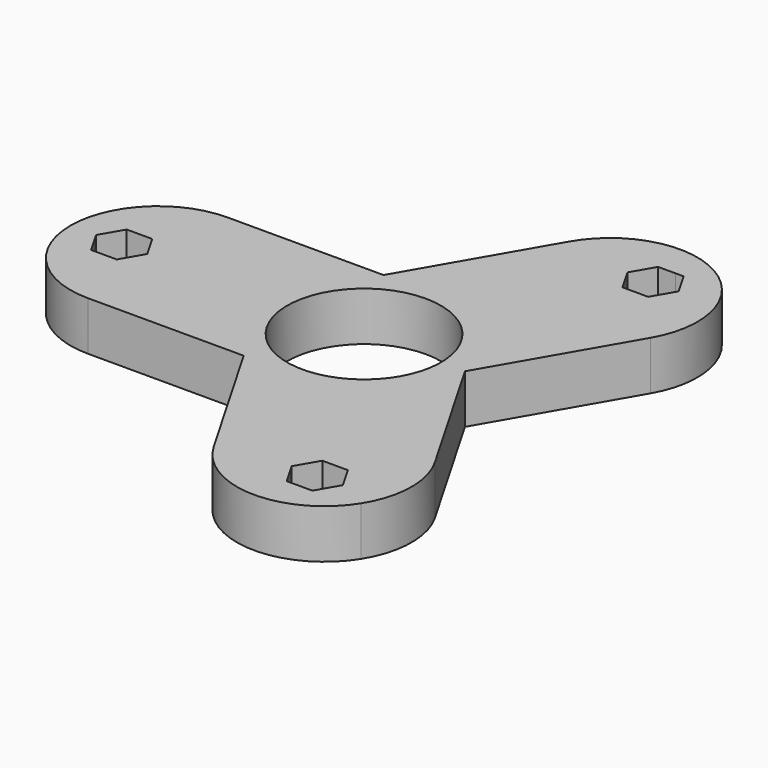
from build123d import *

# Parameters (mm, degrees)
F2_DEPTH = 7
F3_COUNT = 3
F3_ANGLE = 240


with BuildPart() as f2:
    # F1 (on Top) → F2 (new body)
    with BuildSketch(Plane.XY):
        with BuildLine():
            ThreePointArc((0, -11), (-11, 0), (0, 11))
            Line((0, 11), (0, 12.5))
            Line((0, 12.5), (-29.5, 12.5))
            ThreePointArc((-29.5, 12.5), (-40.204497, 6.454745), (-40.555168, -5.833803))
            ThreePointArc((-40.555168, -5.833803), (-35.954745, -10.704497), (-29.5, -12.5))
            Line((-29.5, -12.5), (0, -12.5))
            Line((0, -12.5), (0, -11))
        make_face()
        Polygon((-36.505103, -3.171616), (-37.752941, -1.001071), (-38.332336, 0.006757), (-36.493401, 3.178373), (-32.827233, 3.171616), (-31, -0.006757), (-32.838935, -3.178373), align=None, mode=Mode.SUBTRACT)
    extrude(amount=F2_DEPTH)

    # F3: F2 ×3 about axis
    f3_axis = Axis((0, 0, 3.091235), (0, 0, 1))


with BuildPart() as f2_1:
    add(f2.part)
    for i in range(1, F3_COUNT):
        add(f2.part.rotate(f3_axis, i * F3_ANGLE / (F3_COUNT - 1)))


solid = f2_1.part
